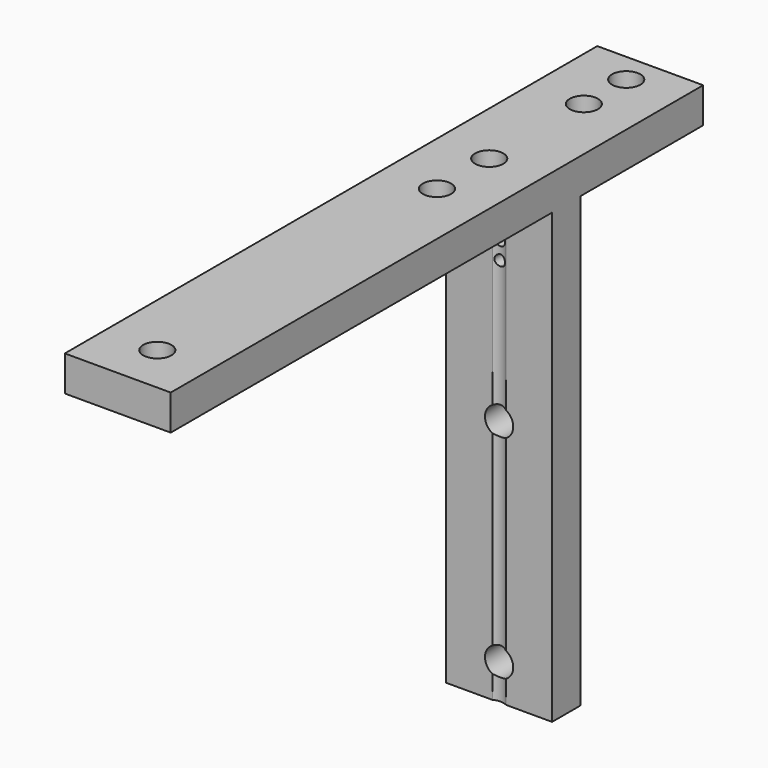
from build123d import *

# Parameters (mm, degrees)
F1_DEPTH = 30
F2_R     = 4
F3_DEPTH = 53.501
F4_R     = 4
F5_DEPTH = 137.001
F6_R     = 1.5
F7_DEPTH = 5


with BuildPart() as f1:
    # F0 (on Right) → F1 (new body)
    with BuildSketch(Plane.YZ):
        Polygon((0, 127), (0, 0), (10, 0), (10, 127), (53.5, 127), (53.5, 137), (-135, 137), (-135, 127), align=None)
    extrude(amount=F1_DEPTH)

    # F2 (on face) → F3 (cut, through all)
    with BuildSketch(Plane.XZ):
        with Locations((15, 70)):
            Circle(F2_R)
        with Locations((15, 10)):
            Circle(F2_R)
    extrude(amount=-F3_DEPTH, mode=Mode.SUBTRACT)

    # F4 (on face) → F5 (cut, through all)
    with BuildSketch(Plane.XY.offset(137)):
        with Locations((15, 45)):
            Circle(F4_R)
        with Locations((15, 30)):
            Circle(F4_R)
        with Locations((15, -3.5)):
            Circle(F4_R)
        with Locations((15, -22)):
            Circle(F4_R)
        with Locations((15, -121)):
            Circle(F4_R)
    extrude(amount=-F5_DEPTH, mode=Mode.SUBTRACT)

    # F6 (on face) → F7 (cut)
    with BuildSketch(Plane.XZ):
        with Locations((15, 110)):
            Circle(F6_R)
        with Locations((15, 115)):
            Circle(F6_R)
    extrude(amount=-F7_DEPTH, mode=Mode.SUBTRACT)


solid = f1.part
